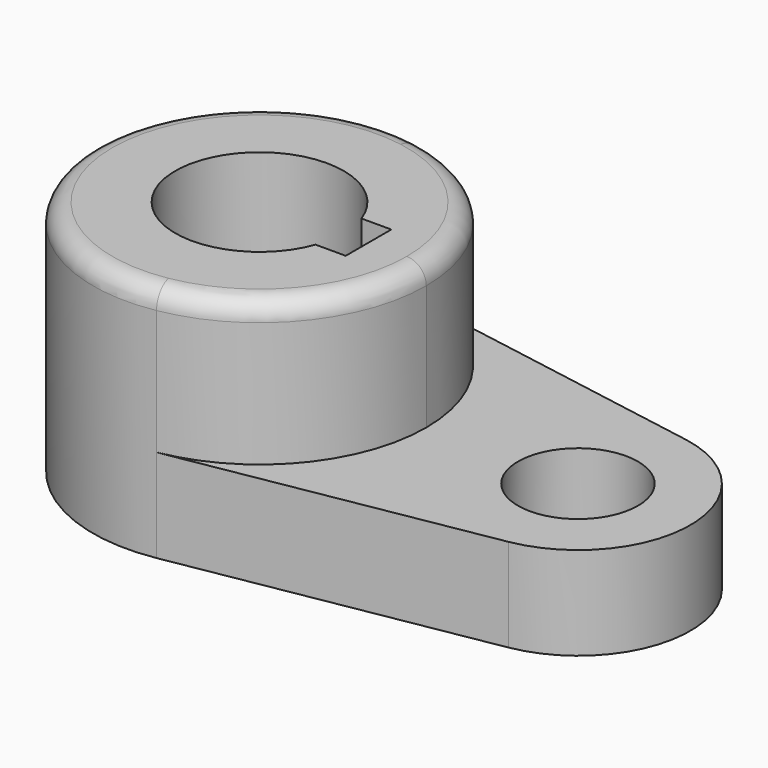
from build123d import *

# Parameters (mm, degrees)
F1_DEPTH = 40.2336
F0_R     = 10.16
F2_DEPTH = 15.7734
F3_R     = 3.302


with BuildPart() as f1:
    # F0 (on Top) → F1 (new body)
    with BuildSketch(Plane.XY):
        with BuildLine():
            ThreePointArc((4.820397, -27.843313), (21.618264, -18.197169), (28.2575, 0))
            ThreePointArc((28.2575, 0), (21.618264, 18.197169), (4.820397, 27.843313))
            ThreePointArc((4.820397, 27.843313), (-28.2575, 0), (4.820397, -27.843313))
        make_face()
        with BuildLine():
            ThreePointArc((13.420816, -4.900444), (-14.287281, 0.079093), (13.474249, 4.751556))
            Line((13.474249, 4.751556), (18.5293, 4.751556))
            Line((18.5293, 4.751556), (18.5293, -4.900444))
            Line((18.5293, -4.900444), (13.420816, -4.900444))
        make_face(mode=Mode.SUBTRACT)
    extrude(amount=F1_DEPTH)

    # F0 (on Top) → F2 (join)
    with BuildSketch(Plane.XY):
        with BuildLine():
            ThreePointArc((4.820397, -27.843313), (21.618264, -18.197169), (28.2575, 0))
            ThreePointArc((28.2575, 0), (21.618264, 18.197169), (4.820397, 27.843313))
            ThreePointArc((4.820397, 27.843313), (-28.2575, 0), (4.820397, -27.843313))
        make_face()
        with BuildLine():
            ThreePointArc((13.420816, -4.900444), (-14.287281, 0.079093), (13.474249, 4.751556))
            Line((13.474249, 4.751556), (18.5293, 4.751556))
            Line((18.5293, 4.751556), (18.5293, -4.900444))
            Line((18.5293, -4.900444), (13.420816, -4.900444))
        make_face(mode=Mode.SUBTRACT)
        with BuildLine():
            ThreePointArc((4.820397, 27.843313), (21.618264, 18.197169), (28.2575, 0))
            ThreePointArc((28.2575, 0), (21.618264, -18.197169), (4.820397, -27.843313))
            Line((4.820397, -27.843313), (57.224706, -18.770773))
            ThreePointArc((57.224706, -18.770773), (73.025, 0), (57.224706, 18.770773))
            Line((57.224706, 18.770773), (4.820397, 27.843313))
        make_face()
        with Locations((53.975, 0)):
            Circle(F0_R, mode=Mode.SUBTRACT)
    extrude(amount=F2_DEPTH)

    # F3
    f3_edges = [f1.edges().sort_by_distance(p)[0] for p in [
        (-4.820397, 27.843313, 40.2336),
    ]]
    fillet(f3_edges, radius=F3_R)


solid = f1.part
